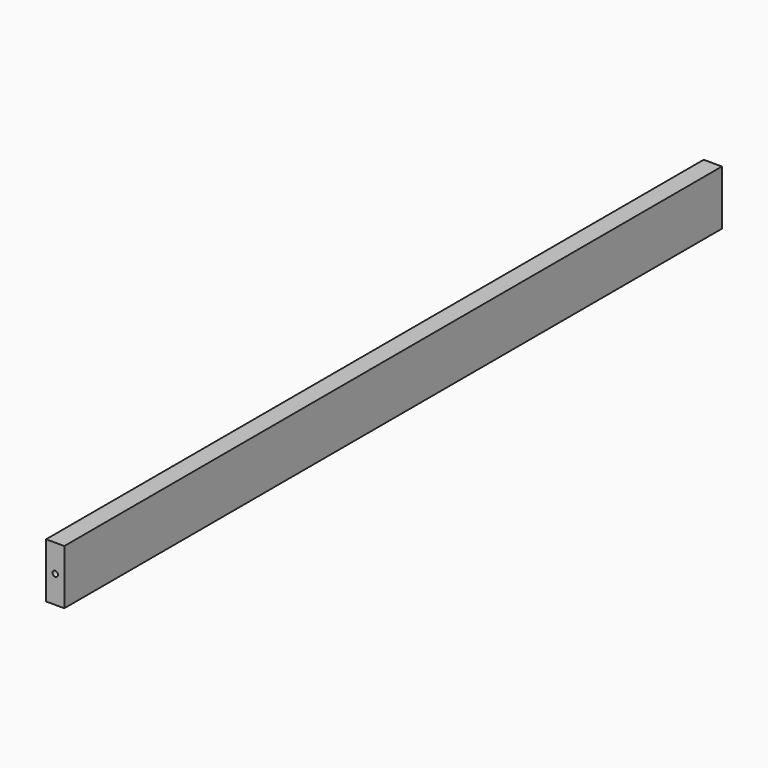
from build123d import *

# Parameters (mm, degrees)
F0_W     = 20
F0_H     = 60
F1_DEPTH = 450
F3_R     = 3
F4_DEPTH = 12
F2_R     = 3
F5_DEPTH = 12


with BuildPart() as f1:
    # F0 (on Front) → F1 (new body, symmetric)
    with BuildSketch(Plane.XZ):
        with Locations((10, 30)):
            Rectangle(F0_W, F0_H)
    extrude(amount=F1_DEPTH, both=True)

    # F3 (on face) → F4 (cut)
    with BuildSketch(Plane(origin=(0, 450, 0), x_dir=(-1, 0, 0), z_dir=(0, 1, 0))):
        with Locations((-10, 30)):
            Circle(F3_R)
    extrude(amount=-F4_DEPTH, mode=Mode.SUBTRACT)

    # F2 (on face) → F5 (cut)
    with BuildSketch(Plane.XZ.offset(450)):
        with Locations((10, 30)):
            Circle(F2_R)
    extrude(amount=-F5_DEPTH, mode=Mode.SUBTRACT)


solid = f1.part
